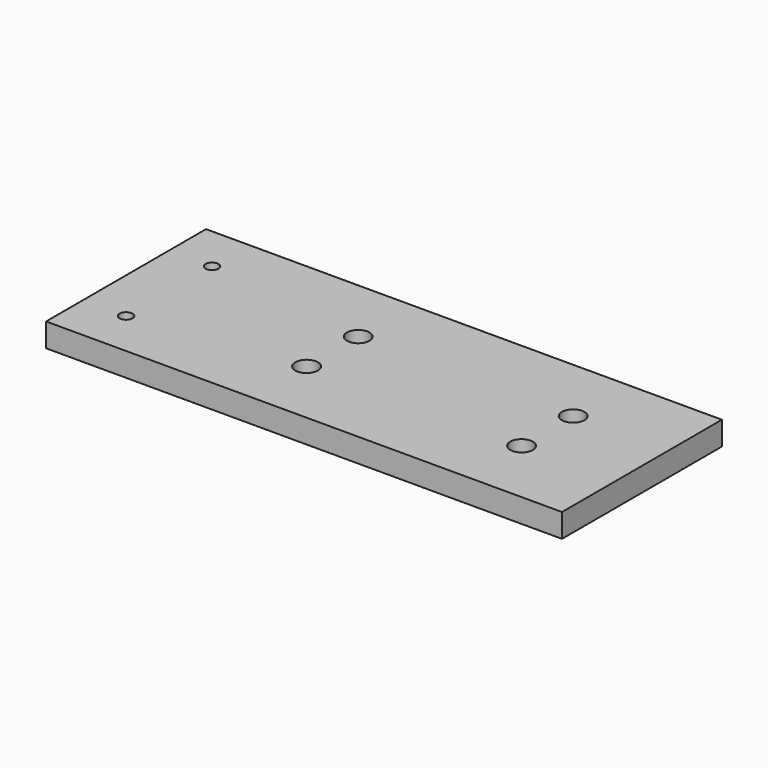
from build123d import *

# Parameters (mm, degrees)
F0_W     = 240
F0_H     = 93
F1_DEPTH = 11
F2_R     = 3.25
F2_R_2   = 3
F3_DEPTH = 11.001
F4_R     = 5.25
F5_DEPTH = 7


with BuildPart() as f1:
    # F0 (on Top) → F1 (new body)
    with BuildSketch(Plane.XY):
        Rectangle(F0_W, F0_H)
    extrude(amount=F1_DEPTH)

    # F2 (on face) → F3 (cut, through all)
    with BuildSketch(Plane.XY.offset(11)):
        with Locations((76, 15)):
            Circle(F2_R)
        with Locations((-24, 15)):
            Circle(F2_R)
        with Locations((-100, 25)):
            Circle(F2_R_2)
        with Locations((-100, -25)):
            Circle(F2_R_2)
        with Locations((-24, -15)):
            Circle(F2_R)
        with Locations((76, -15)):
            Circle(F2_R)
    extrude(amount=-F3_DEPTH, mode=Mode.SUBTRACT)

    # F4 (on face) → F5 (cut)
    with BuildSketch(Plane.XY.offset(11)):
        with Locations((-24, 15)):
            Circle(F4_R)
        with Locations((76, 15)):
            Circle(F4_R)
        with Locations((76, -15)):
            Circle(F4_R)
        with Locations((-24, -15)):
            Circle(F4_R)
    extrude(amount=-F5_DEPTH, mode=Mode.SUBTRACT)


solid = f1.part
